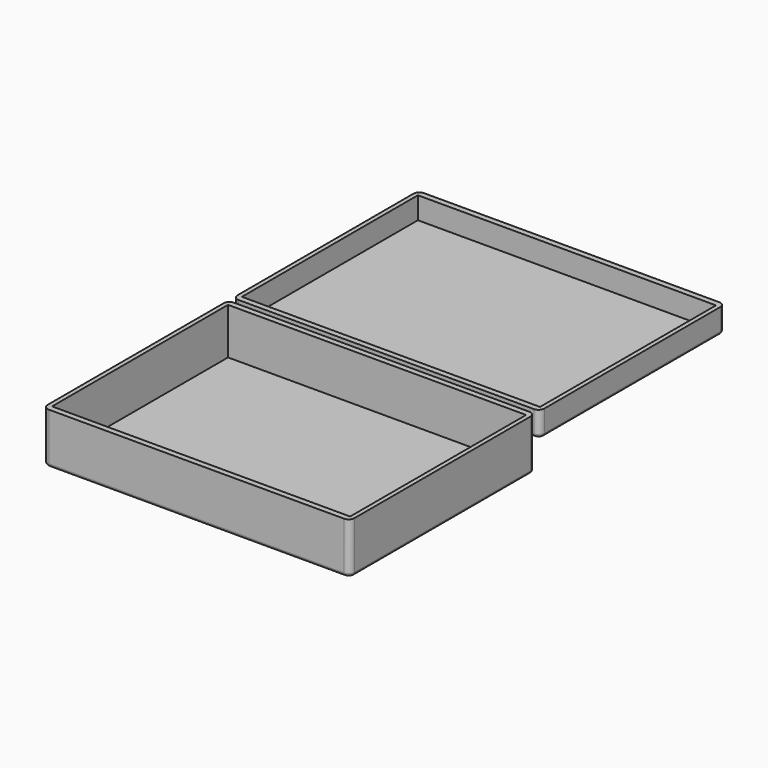
from build123d import *

# Parameters (mm, degrees)
F0_W     = 530
F0_H     = 400
F1_DEPTH = 87.5
F2_W     = 530
F2_H     = 400
F3_DEPTH = 42.5
F4_W     = 515
F4_H     = 380
F5_DEPTH = 80
F6_W     = 515
F6_H     = 380
F7_DEPTH = 38
F8_R     = 10
F8_2_R   = 10
F9_R     = 5
F9_2_R   = 5


with BuildPart() as f1:
    # F0 (on Top) → F1 (new body)
    with BuildSketch(Plane.XY):
        with Locations((265, 200)):
            Rectangle(F0_W, F0_H)
    extrude(amount=-F1_DEPTH)

    # F4 (on face) → F5 (cut)
    with BuildSketch(Plane.XY):
        with Locations((265, 200)):
            Rectangle(F4_W, F4_H)
    extrude(amount=-F5_DEPTH, mode=Mode.SUBTRACT)

    # F8
    f8_edges = [f1.edges().sort_by_distance(p)[0] for p in [
        (0, 0, -43.75),
        (530, 0, -43.75),
        (530, 400, -43.75),
        (0, 400, -43.75),
    ]]
    fillet(f8_edges, radius=F8_R)

    # F9
    f9_edges = [f1.edges().sort_by_distance(p)[0] for p in [
        (265, 0, -87.5),
    ]]
    fillet(f9_edges, radius=F9_R)


with BuildPart() as f3:
    # F2 (on face) → F3 (new body)
    with BuildSketch(Plane.XY):
        with Locations((265, 610)):
            Rectangle(F2_W, F2_H)
    extrude(amount=-F3_DEPTH)

    # F6 (on face) → F7 (cut)
    with BuildSketch(Plane.XY):
        with Locations((265, 610)):
            Rectangle(F6_W, F6_H)
    extrude(amount=-F7_DEPTH, mode=Mode.SUBTRACT)

    # F8#2
    f8_2_edges = [f3.edges().sort_by_distance(p)[0] for p in [
        (530, 410, -21.25),
        (0, 410, -21.25),
        (0, 810, -21.25),
        (530, 810, -21.25),
    ]]
    fillet(f8_2_edges, radius=F8_2_R)

    # F9#2
    f9_2_edges = [f3.edges().sort_by_distance(p)[0] for p in [
        (530, 610, -42.5),
    ]]
    fillet(f9_2_edges, radius=F9_2_R)


solid = Compound([f1.part, f3.part])
